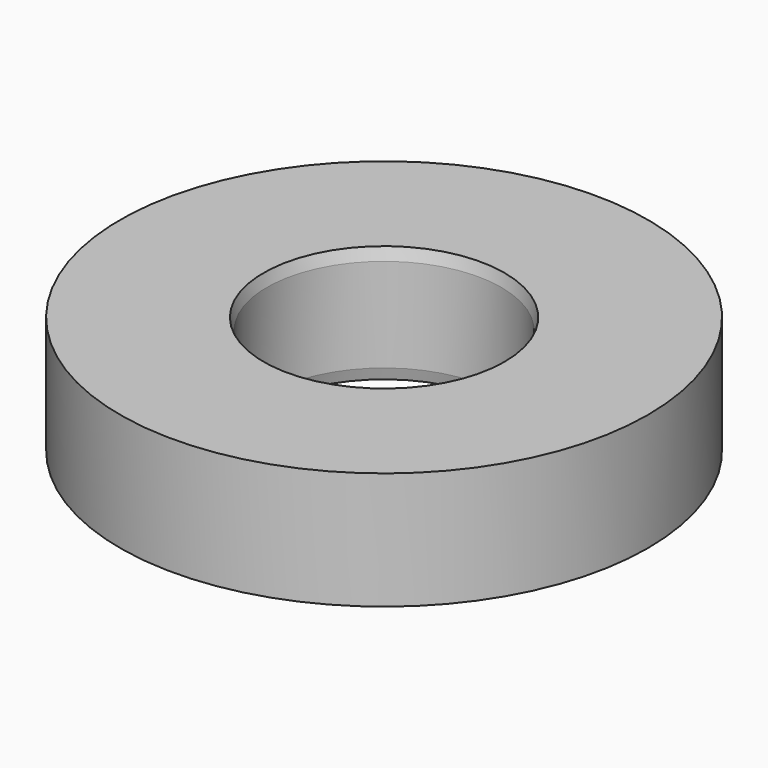
from build123d import *

# Parameters (mm, degrees)
F0_R     = 28.575
F0_R_2   = 12.7
F1_DEPTH = 12.7
F2_SIZE2 = 0.3402954744
F2_SIZE  = 1.27
F4_D     = 4.3942
F4_DEPTH = 6.35
F4_TIP   = 1.3201508661


with BuildPart() as f1:
    # F0 (on Top) → F1 (new body)
    with BuildSketch(Plane.XY):
        Circle(F0_R)
        Circle(F0_R_2, mode=Mode.SUBTRACT)
    extrude(amount=F1_DEPTH)

    # F2
    f2_edges = [f1.edges().sort_by_distance(p)[0] for p in [
        (-12.7, 0, 12.7),
        (-12.7, 0, 0),
    ]]
    f2_side = f1.faces().sort_by_distance((-12.7, 0, 6.35))[0]
    chamfer(f2_edges, length=F2_SIZE, length2=F2_SIZE2, reference=f2_side)

    # F4
    with Locations(Plane(origin=(0, 0, 0), x_dir=(1, 0, 0), z_dir=(0, 0, -1))):
        with Locations((0, -17.78), (-17.78, 0), (0, 17.78), (17.78, 0)):
            Hole(F4_D / 2, depth=F4_DEPTH)
            with Locations((0, 0, -(F4_DEPTH + F4_TIP / 2))):  # 118° drill point
                Cone(0, F4_D / 2, F4_TIP, mode=Mode.SUBTRACT)


solid = f1.part
